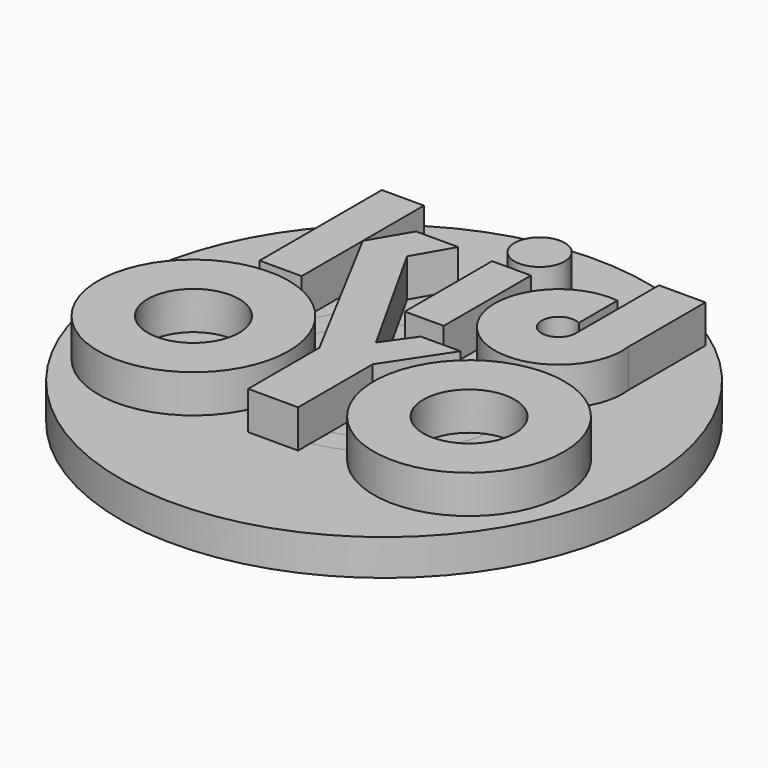
from build123d import *

# Parameters (mm, degrees)
F0_R     = 10.9982
F0_R_2   = 5.0038
F1_DEPTH = 1.4986
F0_R_3   = 4.0005
F2_DEPTH = 2.0066
F3_DEPTH = 3.5052
F5_DEPTH = 1.27
F4_W     = 1.2951166562
F4_H     = 3.6354111349
F4_R     = 0.8361544211
F4_R_2   = 3.175
F4_R_3   = 1.524
F6_SCALE = 1.25


with BuildPart() as f1:
    # F0 (on Top) → F1 (new body)
    with BuildSketch(Plane.XY):
        Circle(F0_R)
        Circle(F0_R_2, mode=Mode.SUBTRACT)
    extrude(amount=-F1_DEPTH)


with BuildPart() as f2:
    # F0 (on Top) → F2 (new body)
    with BuildSketch(Plane.XY):
        Circle(F0_R_2)
        Circle(F0_R_3, mode=Mode.SUBTRACT)
    extrude(amount=-F2_DEPTH)


with BuildPart() as f3:
    # F0 (on Top) → F3 (new body)
    with BuildSketch(Plane.XY):
        Circle(F0_R_3)
    extrude(amount=-F3_DEPTH)


with BuildPart() as f5:
    # F4 (on Top) → F5 (new body)
    with BuildSketch(Plane.XY):
        Polygon((-0.9639669859, -1.4903870741), (-0.9639669859, -4.4593061392), (0.7013171111, -4.4593061392), (0.7013171111, -1.3541933216), (2.0251488681, 0.6504660684), (0.7013171111, 0.6504660684), (0, -0.3391735764), (-2.401197562, 3.9588166401), (-1.6904811083, 5.1996577531), (-3.0943236873, 5.1996577531), (-3.8450609427, 3.9197136648), align=None)
    extrude(amount=F5_DEPTH)


with BuildPart() as f5b:
    # F4 (on Top) → F5, piece 2 (new body)
    with BuildSketch(Plane.XY):
        Polygon((-3.8450609427, 1.3726343814), (-3.8450609427, 3.9197136648), (-3.8450609427, 6.4667929482), (-5.2475911869, 6.4667929482), (-5.2475911869, 1.3726343814), align=None)
    extrude(amount=F5_DEPTH)


with BuildPart() as f5c:
    # F4 (on Top) → F5, piece 3 (new body)
    with BuildSketch(Plane.XY):
        with Locations((0.1460003935, 3.3100993147)):
            Rectangle(F4_W, F4_H)
    extrude(amount=F5_DEPTH)


with BuildPart() as f5d:
    # F4 (on Top) → F5, piece 4 (new body)
    with BuildSketch(Plane.XY):
        with Locations((0.1460003935, 6.2987548299)):
            Circle(F4_R)
    extrude(amount=F5_DEPTH)


with BuildPart() as f5e:
    # F4 (on Top) → F5, piece 5 (new body)
    with BuildSketch(Plane.XY):
        with Locations((-4.644471146, -2.1374930238)):
            Circle(F4_R_2)
        with Locations((-4.644471146, -2.1374930238)):
            Circle(F4_R_3, mode=Mode.SUBTRACT)
    extrude(amount=F5_DEPTH)


with BuildPart() as f5f:
    # F4 (on Top) → F5, piece 6 (new body)
    with BuildSketch(Plane.XY):
        with Locations((4.4984421693, -2.0841928199)):
            Circle(F4_R_2)
        with Locations((4.4984421693, -2.0841928199)):
            Circle(F4_R_3, mode=Mode.SUBTRACT)
    extrude(amount=F5_DEPTH)


with BuildPart() as f5g:
    # F4 (on Top) → F5, piece 7 (new body)
    with BuildSketch(Plane.XY):
        with BuildLine():
            Line((3.4315840051, 3.822441707), (3.4315840051, 5.4306069392))
            ThreePointArc((3.4315840051, 5.4306069392), (1.6593378456, 1.8125938265), (5.2846923269, 3.5697734468))
            Line((5.2846923269, 3.5697734468), (5.2846923269, 6.7809580791))
            Line((5.2846923269, 6.7809580791), (3.7393509245, 6.7809580791))
            Line((3.7393509245, 6.7809580791), (3.7393509245, 5.3691130042))
            Line((3.7393509245, 5.3691130042), (3.7393509245, 3.3260008253))
            ThreePointArc((3.7393509245, 3.3260008253), (3.7394367375, 3.3161076992), (3.7393509245, 3.3062145731))
            ThreePointArc((3.7393509245, 3.3062145731), (2.6792539887, 3.0240571788), (3.4315840051, 3.822441707))
        make_face()
    extrude(amount=F5_DEPTH)


with BuildPart() as f5b_1:
    # F6: moved
    add(f5b.part.scale(F6_SCALE))


with BuildPart() as f5_1:
    # F6: moved
    add(f5.part.scale(F6_SCALE))


with BuildPart() as f5c_1:
    # F6: moved
    add(f5c.part.scale(F6_SCALE))


with BuildPart() as f5d_1:
    # F6: moved
    add(f5d.part.scale(F6_SCALE))


with BuildPart() as f5g_1:
    # F6: moved
    add(f5g.part.scale(F6_SCALE))


with BuildPart() as f5f_1:
    # F6: moved
    add(f5f.part.scale(F6_SCALE))


with BuildPart() as f5e_1:
    # F6: moved
    add(f5e.part.scale(F6_SCALE))


solid = Compound([f1.part, f2.part, f3.part, f5b_1.part, f5_1.part, f5c_1.part, f5d_1.part, f5g_1.part, f5f_1.part, f5e_1.part])
